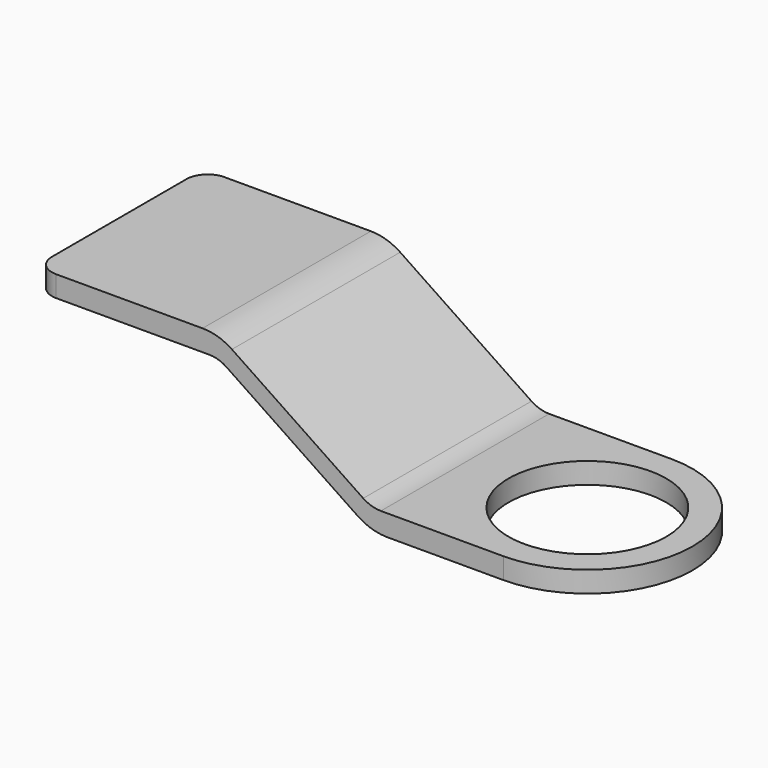
from build123d import *

# Parameters (mm, degrees)
SKETCH_R     = 7.5
PAD_DEPTH    = 2
PAD001_DEPTH = 20
FILLET_R     = 2
FILLET001_R  = 5
FILLET002_R  = 3


with BuildPart() as part:
    # Sketch → Pad (new body)
    with BuildSketch(Plane.XY):
        with BuildLine():
            ThreePointArc((0, -10), (10, 0), (0, 10))
            Line((0, 10), (-12.554, 10))
            Line((-12.554, -10), (-12.554, 10))
            Line((0, -10), (-12.554, -10))
        make_face()
        Circle(SKETCH_R, mode=Mode.SUBTRACT)
    extrude(amount=PAD_DEPTH)

    # Sketch001 → Pad001 (new body)
    with BuildSketch(Plane.XZ.offset(10)):
        Polygon((-12.554, 0), (-27.062498, 9.772847), (-44.508498, 9.772847), (-44.508498, 11.772847), (-27.062498, 11.772847), (-12.554, 2), align=None)
    extrude(amount=-PAD001_DEPTH)

    # Fillet
    fillet_edges = [part.edges().sort_by_distance(p)[0] for p in [
        (-44.508498, -10, 10.772847),
        (-44.508498, 10, 10.772847),
    ]]
    fillet(fillet_edges, radius=FILLET_R)

    # Fillet001
    fillet001_edges = [part.edges().sort_by_distance(p)[0] for p in [
        (-27.062498, 0, 11.772847),
        (-12.554, 0, 0),
    ]]
    fillet(fillet001_edges, radius=FILLET001_R)

    # Fillet002
    fillet002_edges = [part.edges().sort_by_distance(p)[0] for p in [
        (-27.062498, 0, 9.772847),
        (-12.554, 0, 2),
    ]]
    fillet(fillet002_edges, radius=FILLET002_R)


solid = part.part
